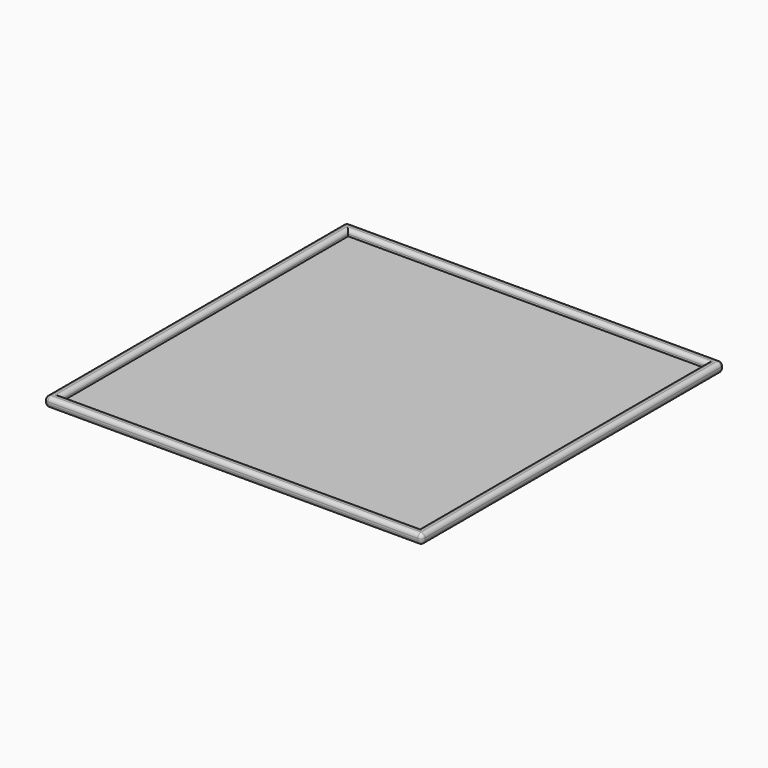
from build123d import *

# Parameters (mm, degrees)
F0_W     = 182
F0_H     = 182
F1_DEPTH = 2
F0_W_2   = 192
F0_H_2   = 192
F2_DEPTH = 5
F3_R     = 2


with BuildPart() as f1:
    # F0 (on Top) → F1 (new body)
    with BuildSketch(Plane.XY):
        Rectangle(F0_W, F0_H)
    extrude(amount=F1_DEPTH)

    # F0 (on Top) → F2 (join)
    with BuildSketch(Plane.XY):
        Rectangle(F0_W_2, F0_H_2)
        Rectangle(F0_W, F0_H, mode=Mode.SUBTRACT)
    extrude(amount=F2_DEPTH)

    # F3
    f3_edges = [f1.edges().sort_by_distance(p)[0] for p in [
        (-96, -96, 2.5),
        (96, -96, 2.5),
        (0, -96, 0),
        (0, -96, 5),
        (96, 96, 2.5),
        (96, 0, 0),
        (96, 0, 5),
        (-96, 96, 2.5),
        (0, 96, 0),
        (0, 96, 5),
        (-96, 0, 0),
        (-96, 0, 5),
        (0, 91, 5),
        (91, 0, 5),
        (0, -91, 5),
        (-91, 0, 5),
    ]]
    fillet(f3_edges, radius=F3_R)


solid = f1.part
